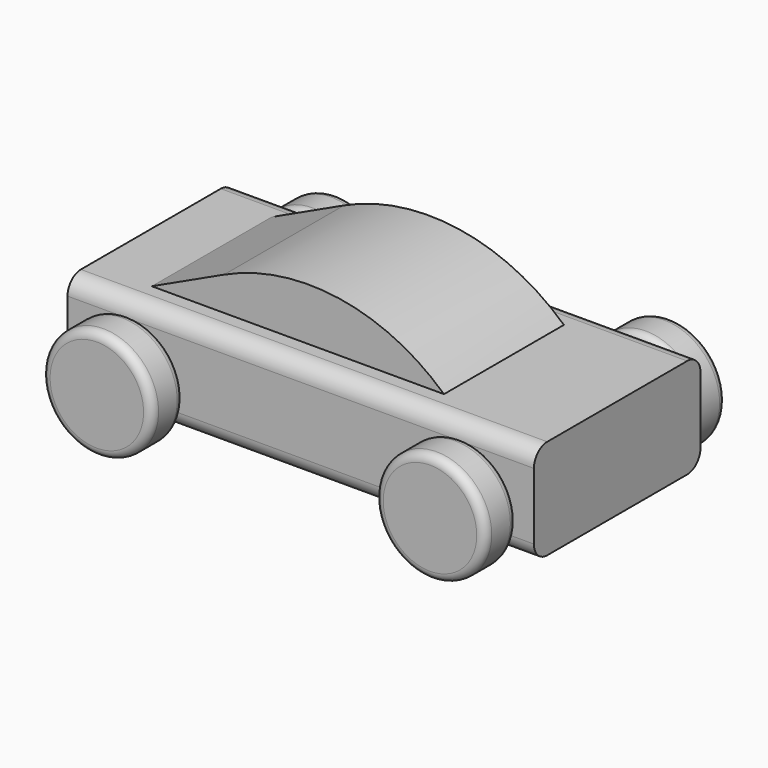
from build123d import *

# Parameters (mm, degrees)
F1_W      = 177.8
F1_H      = 38.1
F2_DEPTH  = 39.6875
F4_R      = 21
F5_DEPTH  = 15.24
F6_R      = 6.35
F7_R      = 3.175
F11_DEPTH = 28.575


with BuildPart() as f2:
    # F1 (on Front) → F2 (new body, symmetric)
    with BuildSketch(Plane.XZ):
        Rectangle(F1_W, F1_H)
    extrude(amount=F2_DEPTH, both=True)

    # F6
    f6_edges = [f2.edges().sort_by_distance(p)[0] for p in [
        (0, -39.6875, 19.05),
        (0, 39.6875, 19.05),
        (0, -39.6875, -19.05),
        (0, 39.6875, -19.05),
    ]]
    fillet(f6_edges, radius=F6_R)

    # F10 (on Front) → F11 (join, symmetric)
    with BuildSketch(Plane.XZ):
        with BuildLine():
            Line((-65.661006, 19.05), (45.72, 19.05))
            ThreePointArc((45.72, 19.05), (5.757279, 38.176086), (-38.1, 31.901908))
            Line((-38.1, 31.901908), (-65.661006, 19.05))
        make_face()
    extrude(amount=F11_DEPTH, both=True)


with BuildPart() as f5:
    # F4 (on offset) → F5 (new body)
    with BuildSketch(Plane.XZ.offset(42.2275)):
        with Locations((63.5, -5.035)):
            Circle(F4_R)
    extrude(amount=F5_DEPTH)

    # F7
    f7_edges = [f5.edges().sort_by_distance(p)[0] for p in [
        (42.5, -57.4675, -5.035),
        (42.5, -42.2275, -5.035),
    ]]
    fillet(f7_edges, radius=F7_R)


with BuildPart() as f8_1:
    # F8: instance of F5
    add(f5.part.mirror(Plane.YZ))


with BuildPart() as f9_1:
    # F9: instance of F8_1
    add(f8_1.part.mirror(Plane.XZ))


with BuildPart() as f9_2:
    # F9: instance of F5
    add(f5.part.mirror(Plane.XZ))


solid = Compound([f2.part, f5.part, f8_1.part, f9_1.part, f9_2.part])
